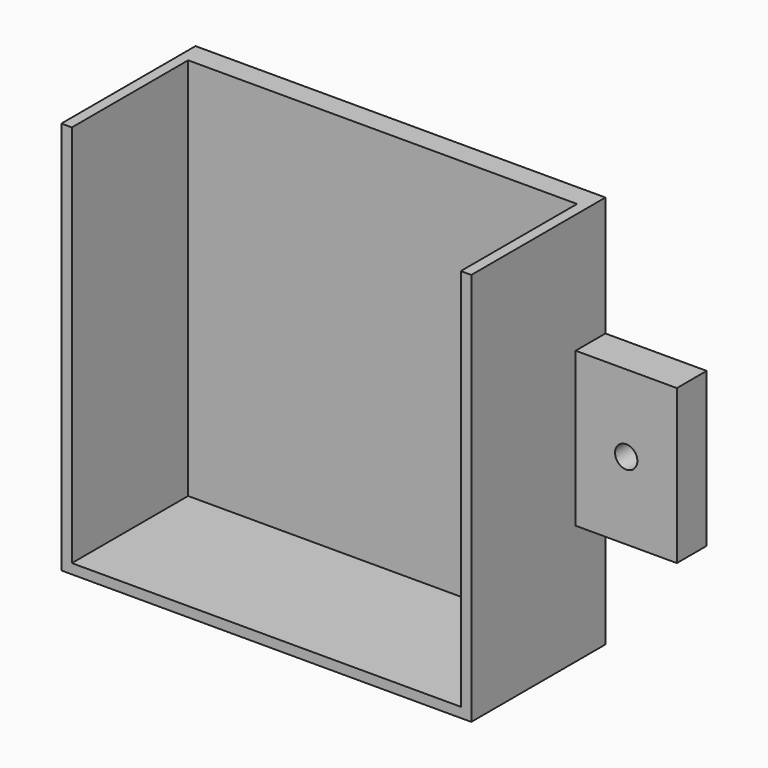
from build123d import *

# Parameters (mm, degrees)
F1_DEPTH = 3
F2_DEPTH = 22.5
F0_W     = 13.580743
F0_H     = 20.673372
F0_R     = 1.5
F3_DEPTH = 5


with BuildPart() as f1:
    # F0 (on Front) → F1 (new body)
    with BuildSketch(Plane.XZ):
        Polygon((26.088619, 25.064645), (26.088619, 26.396385), (-26.088619, 26.396385), (-26.088619, 25.064645), (-26.088619, -25.064645), (26.088619, -25.064645), align=None)
    extrude(amount=F1_DEPTH)

    # F0 (on Front) → F2 (join)
    with BuildSketch(Plane.XZ):
        Polygon((-27.5, -26.396385), (27.5, -26.396385), (27.5, -10.336686), (27.5, 10.336686), (27.5, 26.396385), (26.088619, 26.396385), (26.088619, 25.064645), (26.088619, -25.064645), (-26.088619, -25.064645), (-26.088619, 25.064645), (-26.088619, 26.396385), (-27.5, 26.396385), (-27.5, 10.336686), (-27.5, -10.336686), align=None)
    extrude(amount=F2_DEPTH)

    # F0 (on Front) → F3 (join)
    with BuildSketch(Plane.XZ):
        with Locations((-34.290371, 0)):
            Rectangle(F0_W, F0_H)
        with Locations((-34.290372, 0)):
            Circle(F0_R, mode=Mode.SUBTRACT)
        with Locations((34.290371, 0)):
            Rectangle(F0_W, F0_H)
        with Locations((34.290372, 0)):
            Circle(F0_R, mode=Mode.SUBTRACT)
    extrude(amount=F3_DEPTH)


solid = f1.part
